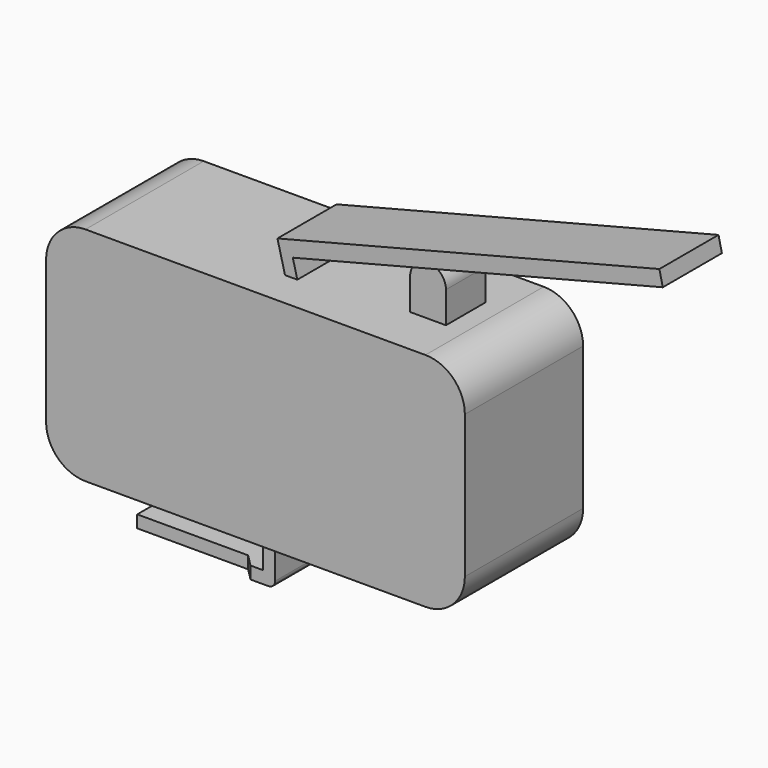
from build123d import *

# Parameters (mm, degrees)
F0_W      = 26.9875
F0_H      = 14.2875
F1_DEPTH  = 4.7625
F2_W      = 2.3090906763
F2_H      = 2.0204546619
F3_DEPTH  = 1.5875
F4_R      = 2.54
F7_DEPTH  = 9.525
F8_DEPTH  = 2.38125
F9_W      = 1.5875
F9_H      = 1.5875
F10_DEPTH = 25.6556836154
F11_R     = 0.4310336894


with BuildPart() as f1:
    # F0 (on Front) → F1 (new body, symmetric)
    with BuildSketch(Plane.XZ):
        Rectangle(F0_W, F0_H)
    extrude(amount=F1_DEPTH, both=True)

    # F2 (on Front) → F3 (join, symmetric)
    with BuildSketch(Plane.XZ):
        with Locations((8.5802881513, 8.1539773309)):
            Rectangle(F2_W, F2_H)
        with BuildLine():
            ThreePointArc((9.7348334894, 9.1642046619), (8.5802881513, 10.31875), (7.4257428132, 9.1642046619))
            Line((7.4257428132, 9.1642046619), (9.7348334894, 9.1642046619))
        make_face()
    extrude(amount=F3_DEPTH, both=True)

    # F4
    f4_edges = [f1.edges().sort_by_distance(p)[0] for p in [
        (13.49375, 0, 7.14375),
        (-13.49375, 0, 7.14375),
        (13.49375, 0, -7.14375),
        (-13.49375, 0, -7.14375),
    ]]
    fillet(f4_edges, radius=F4_R)


with BuildPart() as f7:
    # F6 (on face) → F7 (new body)
    with BuildSketch(Plane.XZ.offset(4.7625)):
        Polygon((0, -7.14375), (-0.79375, -7.14375), (-0.79375, -9.525), (-9.525, -9.525), (-9.525, -10.31875), (0, -10.31875), align=None)
    extrude(amount=-F7_DEPTH)

    # F9 (on face) → F10 (cut, through all)
    with BuildSketch(Plane(origin=(0, 0, -10.31875), x_dir=(1, 0, 0), z_dir=(0, 0, -1))):
        with Locations((-0.79375, 3.96875)):
            Rectangle(F9_W, F9_H)
        Polygon((-1.5875, 3.175), (-1.5875, 4.7625), (-9.525, 4.7625), (-9.525, 2.38125), (-2.38125, 2.38125), align=None)
        Polygon((-2.38125, -2.38125), (-9.525, -2.38125), (-9.525, -4.7625), (-1.5875, -4.7625), (-1.5875, -3.175), align=None)
        with Locations((-0.79375, -3.96875)):
            Rectangle(F9_W, F9_H)
    extrude(amount=-F10_DEPTH, mode=Mode.SUBTRACT)

    # F11
    f11_edges = [f7.edges().sort_by_distance(p)[0] for p in [
        (0, 0, -10.31875),
    ]]
    fillet(f11_edges, radius=F11_R)


with BuildPart() as f8:
    # F5 (on Front) → F8 (new body, symmetric)
    with BuildSketch(Plane.XZ):
        Polygon((0, 7.14375), (0.79375, 7.14375), (0.4998811565, 8.2975389727), (24.3448532584, 14.3708284046), (24.1243833445, 15.3359336154), (-0.4897814058, 9.0667316211), align=None)
    extrude(amount=F8_DEPTH, both=True)


solid = Compound([f1.part, f7.part, f8.part])
